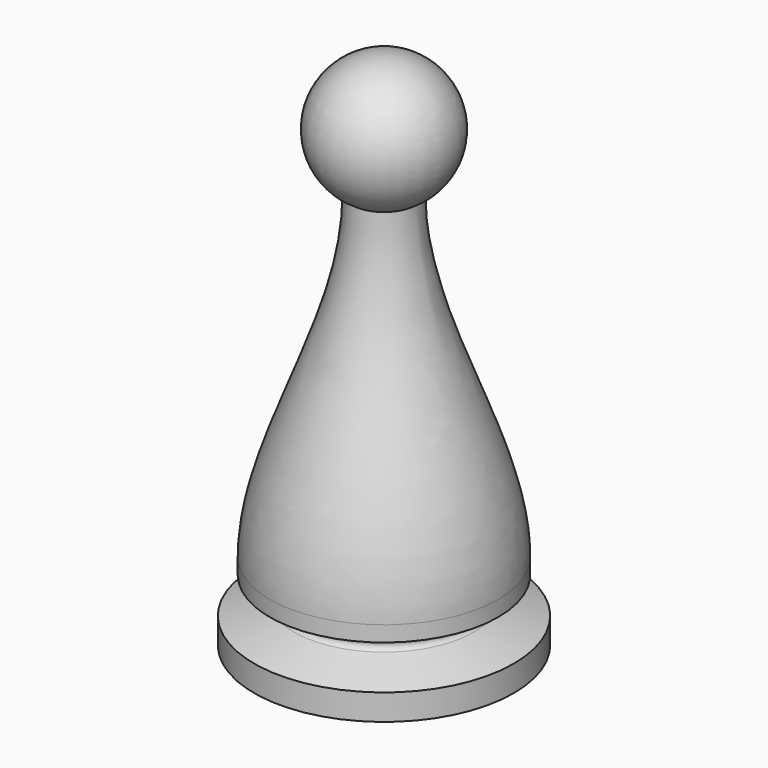
from build123d import *

# Parameters (mm, degrees)
F2_R = 0.254


with BuildPart() as f1:
    # F0 (on Front) → F1 (revolve)
    with BuildSketch(Plane.XZ):
        with BuildLine():
            ThreePointArc((1.5875, 19.475369), (3.066814, 23.04675), (0, 25.4))
            Line((0, 25.4), (0, 0))
            Line((0, 0), (3.81, 0))
            Line((3.81, 0), (6.35, 0))
            Line((6.35, 0), (6.35, 1.27))
            Line((6.35, 1.27), (3.81, 2.194484))
            Line((3.81, 2.194484), (5.588, 3.023579))
            Line((5.588, 3.023579), (5.588, 3.785579))
            add(Edge.make_bspline(
                [(1.5875, 19.475369), (1.5875, 13.826752), (5.588, 8.652155), (5.588, 3.785579)],
                knots=[0, 0, 0, 0, 16.191773, 16.191773, 16.191773, 16.191773], degree=3))
        make_face()
    revolve(axis=Axis((0, 0, 12.7), (0, 0, -1)))

    # F2
    f2_edges = [f1.edges().sort_by_distance(p)[0] for p in [
        (-3.81, 0, 2.194484),
    ]]
    fillet(f2_edges, radius=F2_R)


solid = f1.part
